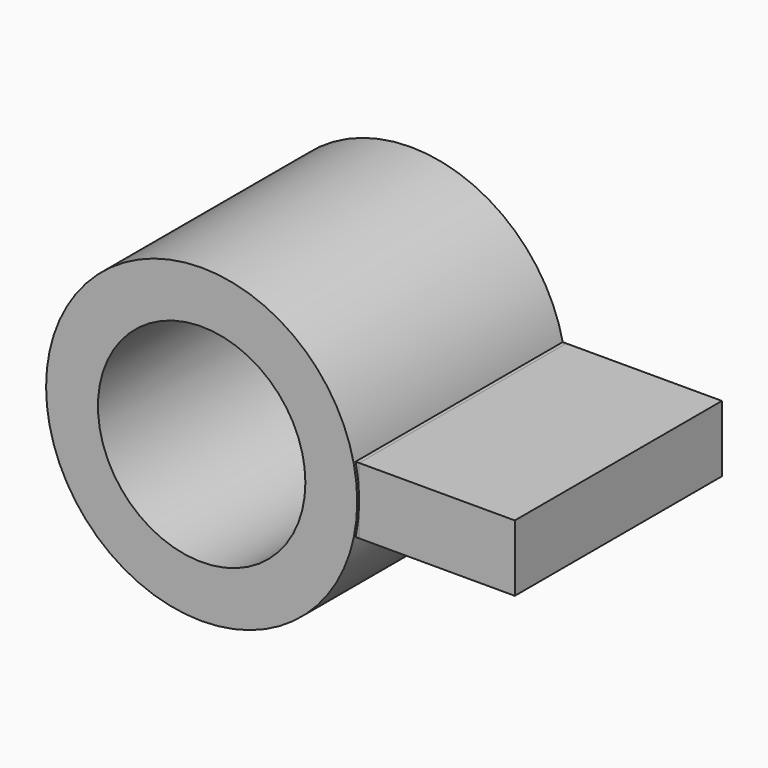
from build123d import *

# Parameters (mm, degrees)
F0_R     = 37.5
F0_R_2   = 25
F1_DEPTH = 63
F3_DEPTH = 62.4
F4_DEPTH = 6.9


with BuildPart() as f1:
    # F0 (on Front) → F1 (new body)
    with BuildSketch(Plane.XZ):
        Circle(F0_R)
        Circle(F0_R_2, mode=Mode.SUBTRACT)
    extrude(amount=F1_DEPTH)

    # F2 (on Front) → F3 (join)
    with BuildSketch(Plane.XZ):
        Polygon((75, -8), (75, 0), (75, 8), (37.5, 8), (37.5, -8), align=None)
    extrude(amount=F3_DEPTH)


with BuildPart() as f4:
    # F4 (new): faces of the model
    f4_faces = [f1.part.faces().sort_by_distance(p)[0] for p in [
        (37.5, -31.2, 4),
        (37.5, -31.2, -4),
    ]]
    extrude(f4_faces, amount=F4_DEPTH)


solid = Compound([f1.part, f4.part])
